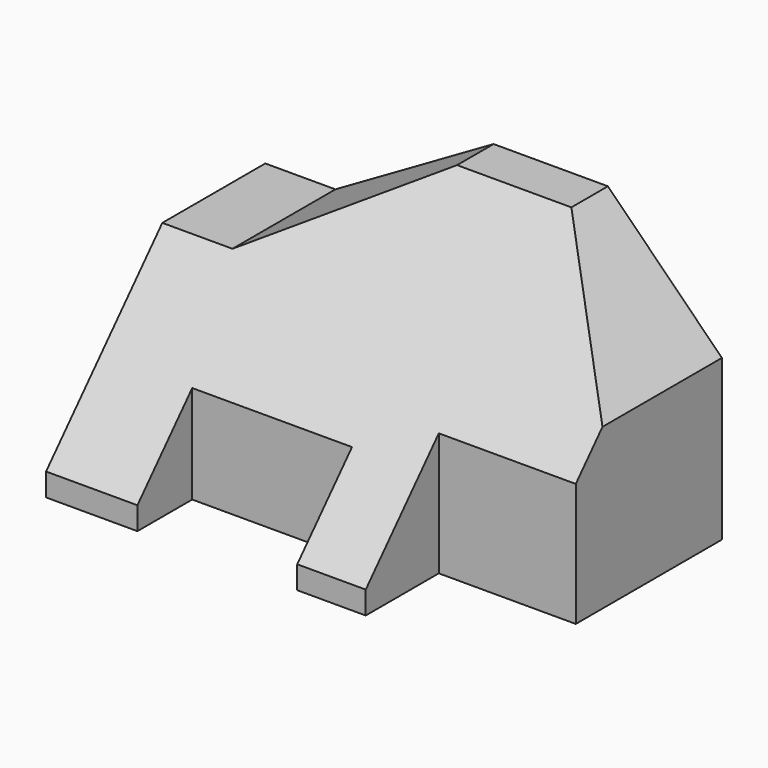
from build123d import *

# Parameters (mm, degrees)
F1_DEPTH = 60
F3_DEPTH = 60.001
F5_DEPTH = 100.001


with BuildPart() as f1:
    # F0 (on Top) → F1 (new body)
    with BuildSketch(Plane.XY):
        Polygon((0, 60), (0, 0), (20, 0), (20, 15), (55, 15), (55, 0), (70, 0), (70, 20), (100, 20), (100, 60), align=None)
    extrude(amount=F1_DEPTH)

    # F2 (on Front) → F3 (cut, through all)
    with BuildSketch(Plane.XZ):
        Polygon((100, 60), (75.033442, 60), (100, 35.033442), align=None)
        Polygon((15.358984, 40), (50, 60), (0, 60), (0, 40), align=None)
    extrude(amount=-F3_DEPTH, mode=Mode.SUBTRACT)

    # F4 (on Right) → F5 (cut, through all)
    with BuildSketch(Plane.YZ):
        Polygon((20, 27), (50, 60), (20, 60), align=None)
        Polygon((20, 27), (20, 60), (0, 60), (0, 5), align=None)
    extrude(amount=F5_DEPTH, mode=Mode.SUBTRACT)


solid = f1.part
